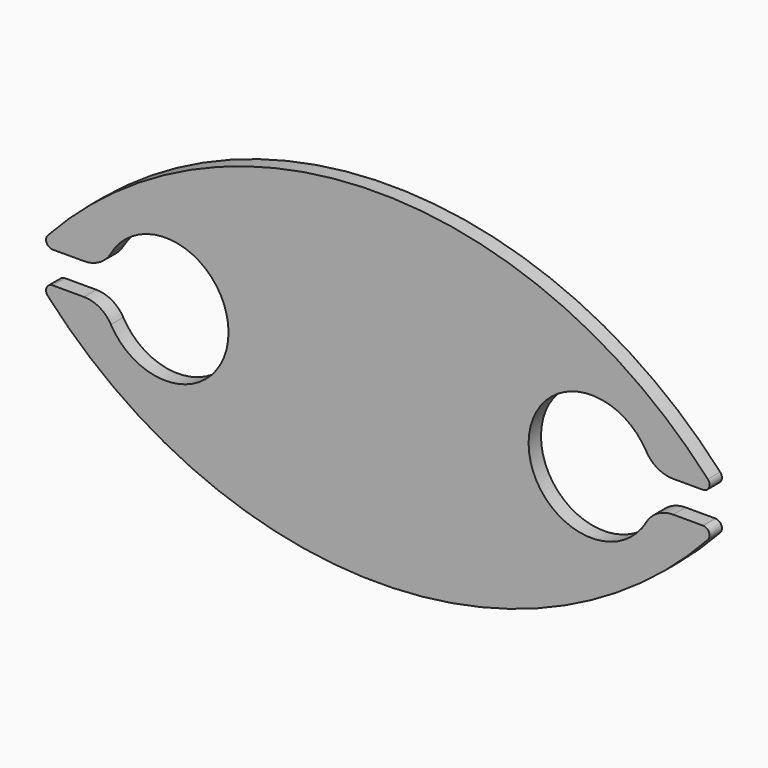
from build123d import *

# Parameters (mm, degrees)
F1_DEPTH = 2.5
F2_R     = 5


with BuildPart() as f1:
    # F0 (on Front) → F1 (new body)
    with BuildSketch(Plane.XZ):
        with BuildLine():
            ThreePointArc((17.224815, 8.702017), (18.191599, 9.333046), (18.003069, 10.472047))
            ThreePointArc((18.003069, 10.472047), (-35.240268, 33.882295), (-88.483606, 10.472047))
            ThreePointArc((-88.483606, 10.472047), (-88.672136, 9.333046), (-87.705352, 8.702017))
            Line((-87.705352, 8.702017), (-79.325233, 8.702017))
            ThreePointArc((-79.325233, 8.702017), (-68.207651, 16.241039), (-59.327855, 6.162017))
            ThreePointArc((-59.327855, 6.162017), (-68.207651, -3.917004), (-79.325233, 3.622017))
            Line((-79.325233, 3.622017), (-87.705352, 3.622017))
            ThreePointArc((-87.705352, 3.622017), (-88.672136, 2.990989), (-88.483606, 1.851987))
            ThreePointArc((-88.483606, 1.851987), (-35.240268, -21.558261), (18.003069, 1.851987))
            ThreePointArc((18.003069, 1.851987), (18.191599, 2.990989), (17.224815, 3.622017))
            Line((17.224815, 3.622017), (9.087631, 3.622017))
            ThreePointArc((9.087631, 3.622017), (-10.909747, 6.162017), (9.087631, 8.702017))
            Line((9.087631, 8.702017), (17.224815, 8.702017))
        make_face()
    extrude(amount=F1_DEPTH)

    # F2
    f2_edges = [f1.edges().sort_by_distance(p)[0] for p in [
        (-79.325233, -1.25, 3.622017),
        (-79.325233, -1.25, 8.702017),
        (9.087631, -1.25, 8.702017),
        (9.087631, -1.25, 3.622017),
    ]]
    fillet(f2_edges, radius=F2_R)


solid = f1.part
